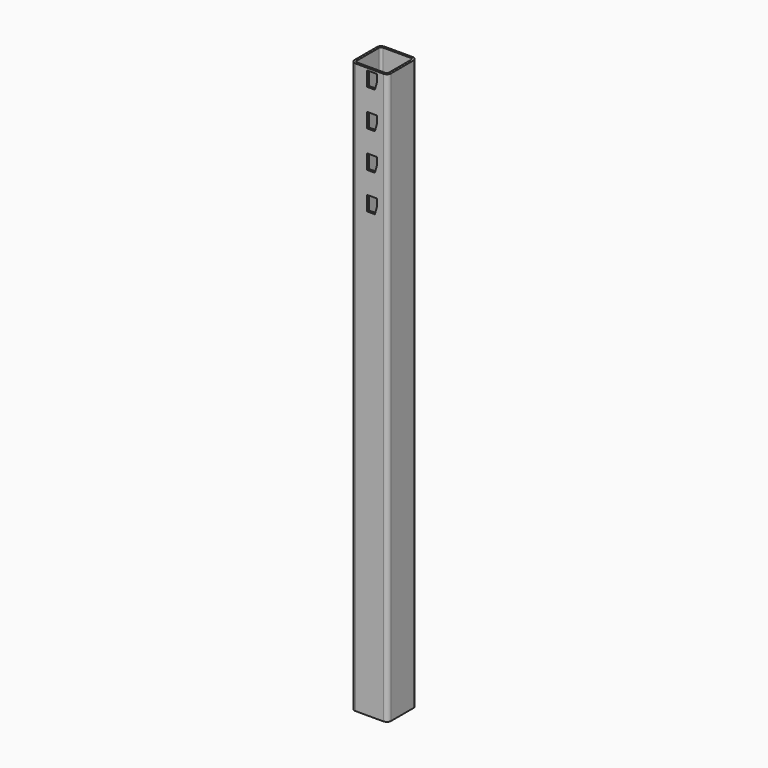
from build123d import *

# Parameters (mm, degrees)
F1_DEPTH = 780
F3_DEPTH = 3


with BuildPart() as f1:
    # F0 (on Top) → F1 (new body)
    with BuildSketch(Plane.XY):
        with BuildLine():
            Line((-19, -25), (19, -25))
            ThreePointArc((19, -25), (23.242641, -23.242641), (25, -19))
            Line((25, -19), (25, 19))
            ThreePointArc((25, 19), (23.242641, 23.242641), (19, 25))
            Line((19, 25), (-19, 25))
            ThreePointArc((-19, 25), (-23.242641, 23.242641), (-25, 19))
            Line((-25, 19), (-25, -19))
            ThreePointArc((-25, -19), (-23.242641, -23.242641), (-19, -25))
        make_face()
        with BuildLine():
            Line((-19, 22), (19, 22))
            ThreePointArc((19, 22), (21.12132, 21.12132), (22, 19))
            Line((22, 19), (22, -19))
            ThreePointArc((22, -19), (21.12132, -21.12132), (19, -22))
            Line((19, -22), (-19, -22))
            ThreePointArc((-19, -22), (-21.12132, -21.12132), (-22, -19))
            Line((-22, -19), (-22, 19))
            ThreePointArc((-22, 19), (-21.12132, 21.12132), (-19, 22))
        make_face(mode=Mode.SUBTRACT)
    extrude(amount=F1_DEPTH)

    # F2 (on face) → F3 (cut)
    with BuildSketch(Plane.XZ.offset(25)):
        Polygon((10.6, 777), (-3.2, 777), (-3.2, 757), (7.6, 757), (10.6, 768), align=None)
        Polygon((-3.2, 727), (-3.2, 707), (7.6, 707), (10.6, 718), (10.6, 727), align=None)
        Polygon((-3.2, 677), (-3.2, 657), (7.6, 657), (10.6, 668), (10.6, 677), align=None)
        Polygon((-3.2, 627), (-3.2, 607), (7.6, 607), (10.6, 618), (10.6, 627), align=None)
    extrude(amount=-F3_DEPTH, mode=Mode.SUBTRACT)


solid = f1.part
